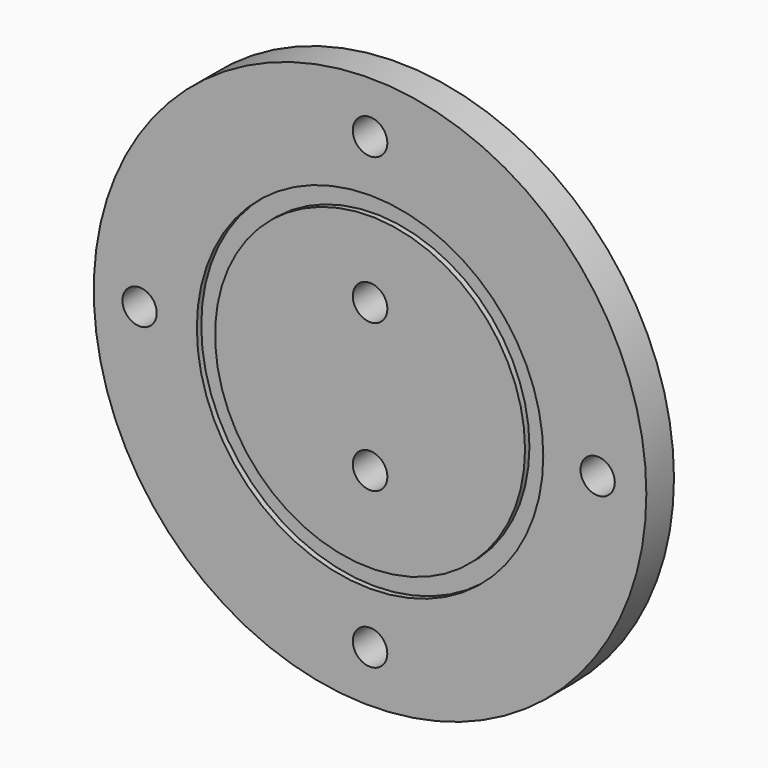
from build123d import *

# Parameters (mm, degrees)
F0_R      = 50.8
F1_DEPTH  = 6.35
F2_R      = 31.849105
F2_R_2    = 28.494031
F3_DEPTH  = 1.016
F4_R      = 3.178935
F5_DEPTH  = 25.4
F6_R      = 3.178936
F7_DEPTH  = 25.4
F8_R      = 3.178935
F9_DEPTH  = 25.4
F10_R     = 3.149749
F11_DEPTH = 25.4
F12_R     = 3.16924
F13_DEPTH = 25.4
F14_R     = 3.149748
F15_DEPTH = 25.4


with BuildPart() as f1:
    # F0 (on Front) → F1 (new body)
    with BuildSketch(Plane.XZ):
        Circle(F0_R)
    extrude(amount=F1_DEPTH)

    # F2 (on face) → F3 (cut)
    with BuildSketch(Plane.XZ.offset(6.35)):
        Circle(F2_R)
        Circle(F2_R_2, mode=Mode.SUBTRACT)
    extrude(amount=-F3_DEPTH, mode=Mode.SUBTRACT)

    # F4 (on face) → F5 (cut)
    with BuildSketch(Plane.XZ.offset(6.35)):
        with Locations((0, 14.475493)):
            Circle(F4_R)
    extrude(amount=-F5_DEPTH, mode=Mode.SUBTRACT)

    # F6 (on face) → F7 (cut)
    with BuildSketch(Plane.XZ.offset(6.35)):
        with Locations((0, -12.720888)):
            Circle(F6_R)
    extrude(amount=-F7_DEPTH, mode=Mode.SUBTRACT)

    # F8 (on face) → F9 (cut)
    with BuildSketch(Plane.XZ.offset(6.35)):
        with Locations((0, 41.320954)):
            Circle(F8_R)
    extrude(amount=-F9_DEPTH, mode=Mode.SUBTRACT)

    # F10 (on face) → F11 (cut)
    with BuildSketch(Plane.XZ.offset(6.35)):
        with Locations((41.847337, 0)):
            Circle(F10_R)
    extrude(amount=-F11_DEPTH, mode=Mode.SUBTRACT)

    # F12 (on face) → F13 (cut)
    with BuildSketch(Plane.XZ.offset(6.35)):
        with Locations((0, -41.320954)):
            Circle(F12_R)
    extrude(amount=-F13_DEPTH, mode=Mode.SUBTRACT)

    # F14 (on face) → F15 (cut)
    with BuildSketch(Plane.XZ.offset(6.35)):
        with Locations((-42.373717, 0)):
            Circle(F14_R)
    extrude(amount=-F15_DEPTH, mode=Mode.SUBTRACT)


solid = f1.part
